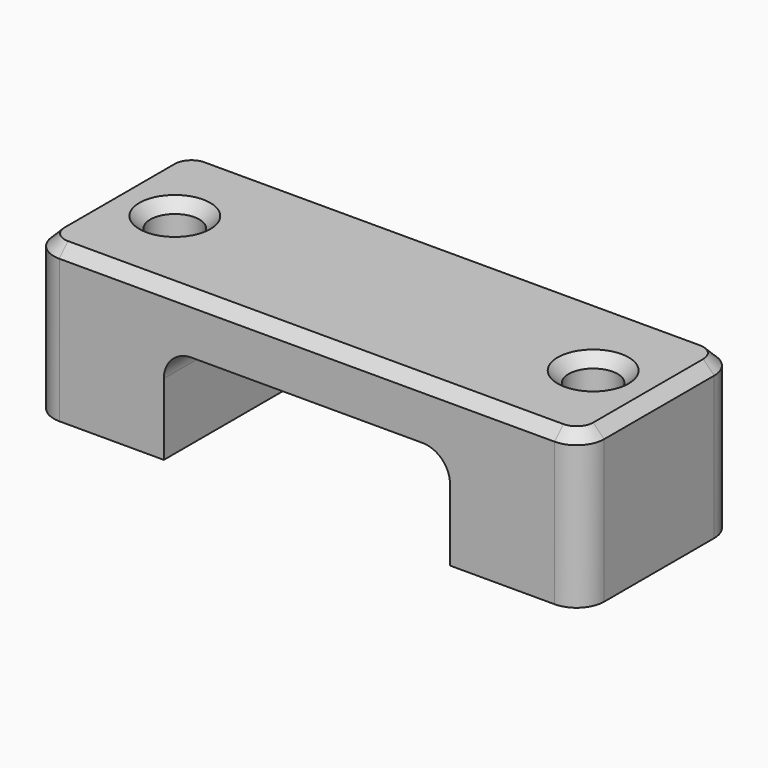
from build123d import *

# Parameters (mm, degrees)
F1_DEPTH = 8.89
F2_R     = 1.1303
F3_DEPTH = 25.4
F4_R     = 1.27
F5_SIZE  = 0.508


with BuildPart() as f1:
    # F0 (on Front) → F1 (new body)
    with BuildSketch(Plane.XZ):
        Polygon((-6.604, 2.286), (6.604, 2.286), (6.604, -2.286), (12.7, -2.286), (12.7, 4.826), (-12.7, 4.826), (-12.7, -2.286), (-6.604, -2.286), align=None)
    extrude(amount=F1_DEPTH)

    # F2 (on face) → F3 (cut)
    with BuildSketch(Plane(origin=(0, 0, -2.286), x_dir=(1, 0, 0), z_dir=(0, 0, -1))):
        with Locations((-9.652, 4.445)):
            Circle(F2_R)
        with Locations((9.652, 4.445)):
            Circle(F2_R)
    extrude(amount=-F3_DEPTH, mode=Mode.SUBTRACT)

    # F4
    f4_edges = [f1.edges().sort_by_distance(p)[0] for p in [
        (-6.604, -4.445, 2.286),
        (6.604, -4.445, 2.286),
        (-12.7, 0, 1.27),
        (-12.7, -8.89, 1.27),
        (12.7, -8.89, 1.27),
        (12.7, 0, 1.27),
    ]]
    fillet(f4_edges, radius=F4_R)

    # F5
    f5_edges = [f1.edges().sort_by_distance(p)[0] for p in [
        (12.7, -4.445, 4.826),
        (12.328026, -0.371974, 4.826),
        (12.328026, -8.518026, 4.826),
        (0, 0, 4.826),
        (0, -8.89, 4.826),
        (-12.328026, -0.371974, 4.826),
        (-12.328026, -8.518026, 4.826),
        (-12.7, -4.445, 4.826),
        (8.5217, -4.445, 4.826),
        (-10.7823, -4.445, 4.826),
    ]]
    chamfer(f5_edges, length=F5_SIZE)


solid = f1.part
